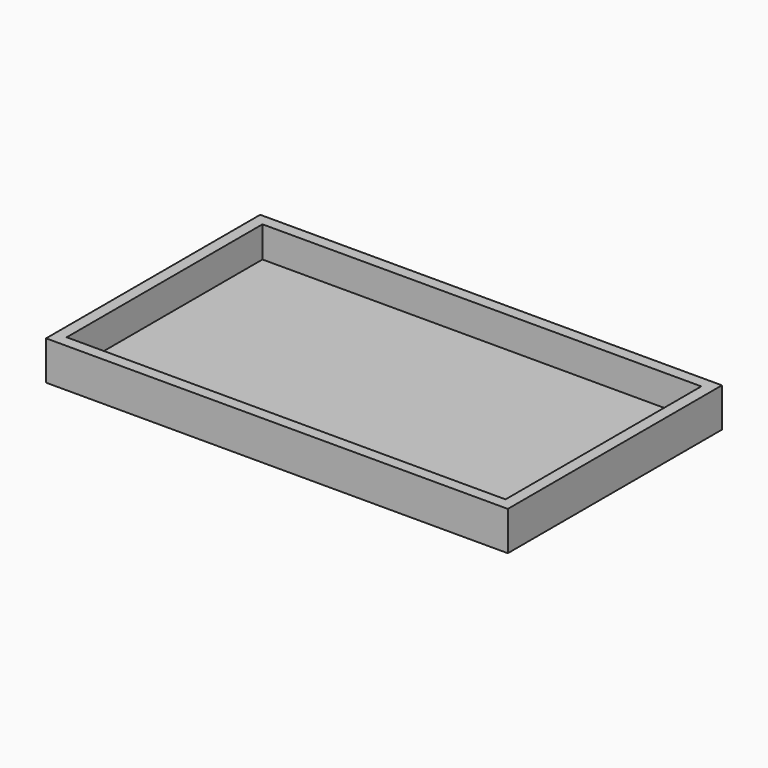
from build123d import *

# Parameters (mm, degrees)
F0_W          = 201.395
F0_H          = 116.729
F1_DEPTH      = 8.515
F2_W          = 191.395
F2_H          = 106.729
F3_DEPTH      = 8.515
F3_DEPTH_BACK = 5


with BuildPart() as f1:
    # F0 (on Top) → F1 (new body, symmetric)
    with BuildSketch(Plane.XY):
        with Locations((95.6975, -53.3645)):
            Rectangle(F0_W, F0_H)
    extrude(amount=F1_DEPTH, both=True)

    # F2 (on Top) → F3 (cut, two sides)
    with BuildSketch(Plane.XY) as f3_sk:
        with Locations((95.6975, -53.3645)):
            Rectangle(F2_W, F2_H)
    extrude(amount=F3_DEPTH, mode=Mode.SUBTRACT)
    extrude(f3_sk.sketch, amount=-F3_DEPTH_BACK, mode=Mode.SUBTRACT)


solid = f1.part
